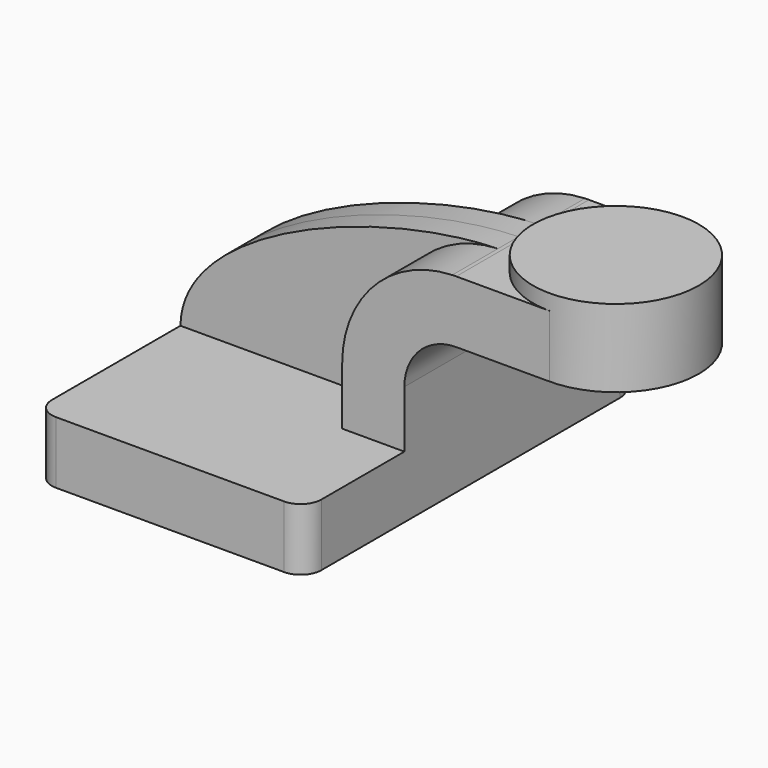
from build123d import *

# Parameters (mm, degrees)
F1_DEPTH = 63.5
F0_W     = 25.4
F0_H     = 19.05
F2_DEPTH = 25.4
F3_DEPTH = 7.9375
F5_R     = 6.35


with BuildPart() as f1:
    # F0 (on Front) → F1 (new body, symmetric)
    with BuildSketch(Plane.XZ):
        Polygon((41.275, -9.525), (41.275, 9.525), (22.225, 9.525), (-41.275, 9.525), (-41.275, -9.525), align=None)
    extrude(amount=F1_DEPTH, both=True)

    # F0 (on Front) → F2 (join, symmetric)
    with BuildSketch(Plane.XZ):
        with BuildLine():
            Line((22.225, 9.525), (41.275, 9.525))
            Line((41.275, 9.525), (41.275, 27.0002))
            ThreePointArc((41.275, 27.0002), (45.9246798487, 38.2255201513), (57.15, 42.8752))
            Line((57.15, 42.8752), (60.325, 42.8752))
            Line((60.325, 42.8752), (60.325, 61.9252))
            Line((60.325, 61.9252), (57.15, 61.9252))
            add(Edge.make_bspline(
                [(55.9467259749, 61.9044655935), (56.3504500822, 61.913953254), (56.7515757531, 61.9208715326), (57.15, 61.9252)],
                knots=[110.3114617473, 110.3114617473, 110.3114617473, 110.3114617473, 111.5045361635, 111.5045361635, 111.5045361635, 111.5045361635], degree=3))
            ThreePointArc((55.9467259749, 61.9044655935), (32.0324765321, 51.2667539341), (22.225, 27.0002))
            Line((22.225, 27.0002), (22.225, 9.525))
        make_face()
        with Locations((73.025, 52.4002)):
            Rectangle(F0_W, F0_H)
    extrude(amount=F2_DEPTH, both=True)

    # F0 (on Front) → F3 (join, symmetric)
    with BuildSketch(Plane.XZ):
        with BuildLine():
            Line((-41.275, 9.525), (22.225, 9.525))
            Line((22.225, 9.525), (22.225, 27.0002))
            ThreePointArc((22.225, 27.0002), (32.0324765321, 51.2667539341), (55.9467259749, 61.9044655935))
            add(Edge.make_bspline(
                [(-41.275, 9.525), (-40.9233677456, 38.1848250151), (18.6184622862, 61.0272380826), (55.9467259749, 61.9044655935)],
                knots=[0, 0, 0, 0, 110.3114617473, 110.3114617473, 110.3114617473, 110.3114617473], degree=3))
        make_face()
    extrude(amount=F3_DEPTH, both=True)

    # F5
    f5_edges = [f1.edges().sort_by_distance(p)[0] for p in [
        (-41.275, -63.5, 0),
        (41.275, -63.5, 0),
        (-41.275, 63.5, 0),
        (41.275, 63.5, 0),
    ]]
    fillet(f5_edges, radius=F5_R)


with BuildPart() as f4:
    # F0 (on Front) → F4 (revolve)
    with BuildSketch(Plane.XZ):
        Polygon((85.725, 61.9252), (85.725, 42.8752), (111.125, 42.8752), (111.125, 66.675), (85.725, 66.675), align=None)
    revolve(axis=Axis((85.725, 0, 54.7751), (0, 0, 1)))


solid = Compound([f1.part, f4.part])
